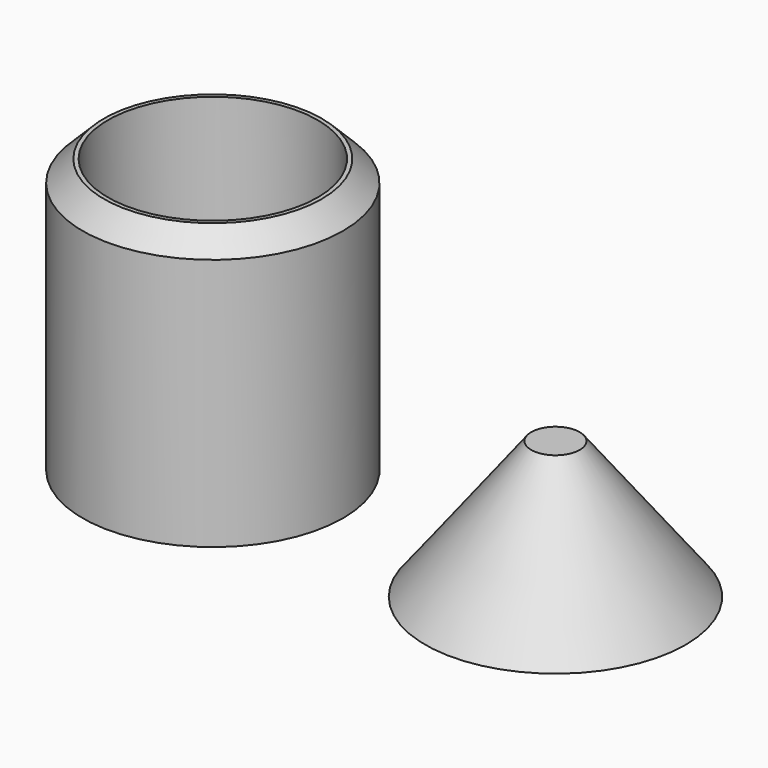
from build123d import *

# Parameters (mm, degrees)
F0_R     = 12.065
F1_DEPTH = 25.4
F2_R     = 9.7155
F3_DEPTH = 21.59
F4_R     = 12.065
F6_R     = 2.243785
F8_SIZE  = 1.9685


with BuildPart() as f1:
    # F0 (on Top) → F1 (new body)
    with BuildSketch(Plane.XY):
        Circle(F0_R)
    extrude(amount=F1_DEPTH)

    # F2 (on face) → F3 (cut)
    with BuildSketch(Plane.XY.offset(25.4)):
        Circle(F2_R)
    extrude(amount=-F3_DEPTH, mode=Mode.SUBTRACT)

    # F8
    f8_edges = [f1.edges().sort_by_distance(p)[0] for p in [
        (-12.065, 0, 25.4),
    ]]
    chamfer(f8_edges, length=F8_SIZE)


with BuildPart() as f7:
    # F4 (on Top) → F7 section 0
    with BuildSketch(Plane.XY):
        with Locations((31.75, 0)):
            Circle(F4_R)
    # F6 (on offset) → F7 section 1
    with BuildSketch(Plane.XY.offset(12.7)):
        with Locations((31.75, 0)):
            Circle(F6_R)
    loft()


solid = Compound([f1.part, f7.part])
